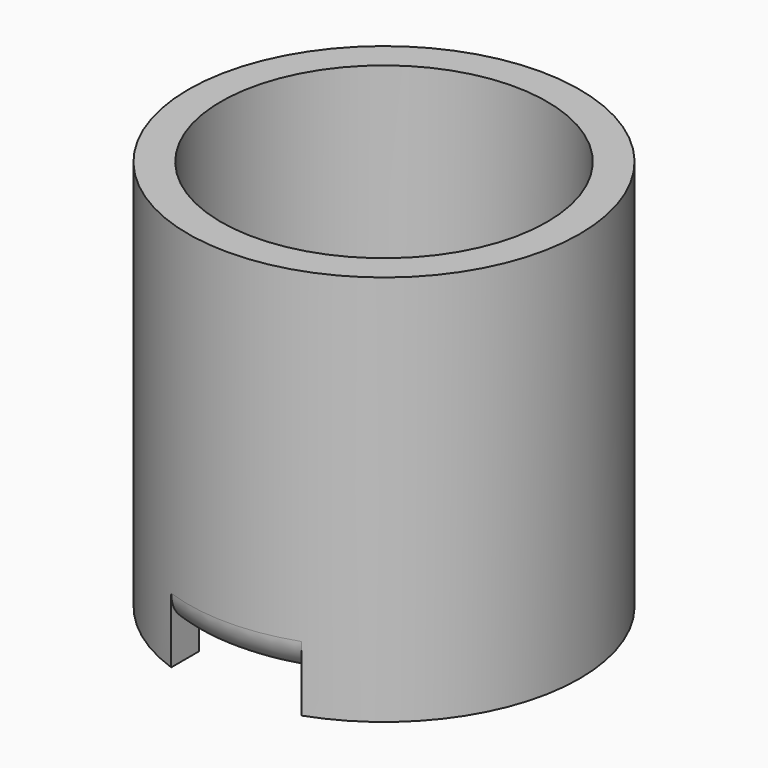
from build123d import *

# Parameters (mm, degrees)
F0_R     = 38.1
F1_DEPTH = 76.2
F2_W     = 25.4
F2_H     = 12.7
F3_DEPTH = 63.5
F4_R     = 6.35
F5_R     = 31.75
F6_DEPTH = 76.201


with BuildPart() as f1:
    # F0 (on Top) → F1 (new body)
    with BuildSketch(Plane.XY):
        Circle(F0_R)
    extrude(amount=F1_DEPTH)

    # F2 (on Front) → F3 (cut, symmetric)
    with BuildSketch(Plane.XZ):
        Rectangle(F2_W, F2_H)
    extrude(amount=F3_DEPTH, both=True, mode=Mode.SUBTRACT)

    # F4
    f4_edges = [f1.edges().sort_by_distance(p)[0] for p in [
        (0, 38.1, 6.35),
        (0, -38.1, 6.35),
    ]]
    fillet(f4_edges, radius=F4_R)

    # F5 (on face) → F6 (cut, through all)
    with BuildSketch(Plane(origin=(0, 0, 0), x_dir=(1, 0, 0), z_dir=(0, 0, -1))):
        Circle(F5_R)
    extrude(amount=-F6_DEPTH, mode=Mode.SUBTRACT)


solid = f1.part
